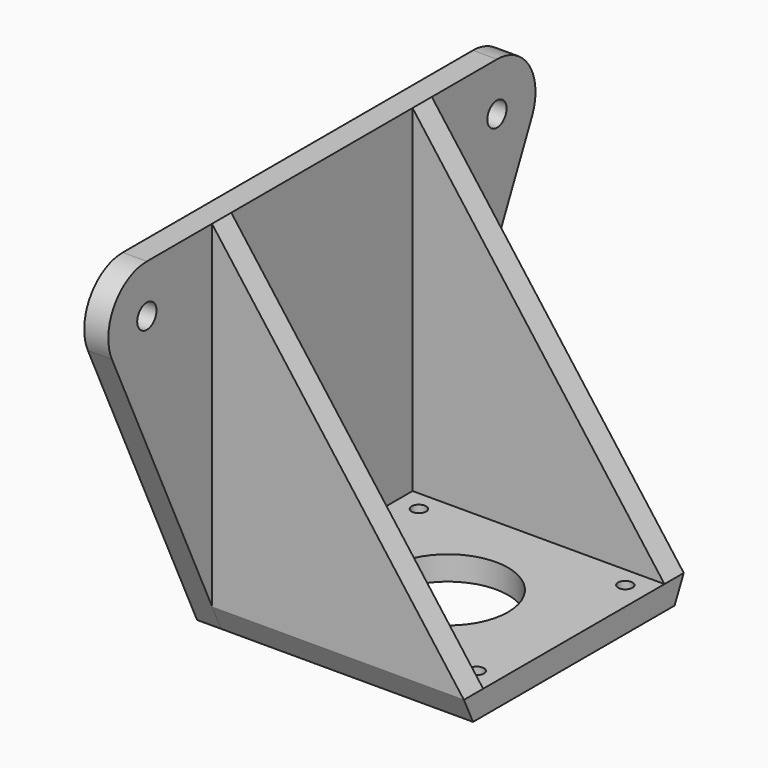
from build123d import *

# Parameters (mm, degrees)
F0_W      = 52.3
F0_H      = 52.3
F1_DEPTH  = 5
F3_DEPTH  = 5
F4_W      = 52.3
F4_H      = 55
F5_DEPTH  = 20
F7_DEPTH  = 52.3
F8_R      = 5
F8_R_2    = 4.357139
F9_DEPTH  = 50
F10_R     = 2.5
F11_DEPTH = 55.001
F13_DEPTH = 52.3
F14_W     = 52.3
F14_H     = 5
F15_DEPTH = 70
F17_DEPTH = 89.648963
F18_R     = 10
F19_R     = 12.5
F19_R_2   = 1.5
F20_DEPTH = 5.001
F21_R     = 2.5
F22_DEPTH = 25.001


with BuildPart() as f1:
    # F0 (on Top) → F1 (new body)
    with BuildSketch(Plane.XY):
        with Locations((26.15, 26.15)):
            Rectangle(F0_W, F0_H)
    extrude(amount=F1_DEPTH)

    # F2 (on Right) → F3 (join)
    with BuildSketch(Plane.YZ):
        Polygon((0, 0), (52.3, 0), (87.273074, 75), (26.15, 75), (-34.973074, 75), align=None)
    extrude(amount=-F3_DEPTH)

    # F4 (on face) → F5 (join)
    with BuildSketch(Plane(origin=(-5, 0, 0), x_dir=(0, -1, 0), z_dir=(-1, 0, 0))):
        with Locations((-26.15, 27.5)):
            Rectangle(F4_W, F4_H)
    extrude(amount=F5_DEPTH)

    # F6 (on face) → F7 (cut, through all)
    with BuildSketch(Plane(origin=(0, 52.3, 0), x_dir=(-1, 0, 0), z_dir=(0, 1, 0))):
        Polygon((25, 55), (5, 0), (25, 0), align=None)
    extrude(amount=-F7_DEPTH, mode=Mode.SUBTRACT)

    # F8 (on Top) → F9 (cut)
    with BuildSketch(Plane.XY):
        with Locations((-15, 10)):
            Circle(F8_R)
        with Locations((-15, 42.3)):
            Circle(F8_R_2)
    extrude(amount=F9_DEPTH, mode=Mode.SUBTRACT)

    # F10 (on face) → F11 (cut, through all)
    with BuildSketch(Plane.XY.offset(55)):
        with Locations((-15, 42.3)):
            Circle(F10_R)
        with Locations((-15, 10)):
            Circle(F10_R)
    extrude(amount=-F11_DEPTH, mode=Mode.SUBTRACT)

    # F12 (on face) → F13 (join, through all)
    with BuildSketch(Plane.YZ.offset(52.3)):
        Polygon((0, 0), (0, 5), (-2.374889, 5), align=None)
        Polygon((54.674889, 5), (52.3, 5), (52.3, 0), align=None)
    extrude(amount=-F13_DEPTH)

    # F14 (on face) → F15 (join, through all)
    with BuildSketch(Plane.XY.offset(5)):
        with Locations((26.15, 52.174889)):
            Rectangle(F14_W, F14_H)
        with Locations((26.15, 0.125111)):
            Rectangle(F14_W, F14_H)
    extrude(amount=F15_DEPTH)

    # F16 (on face) → F17 (cut, through all)
    with BuildSketch(Plane.XZ.offset(2.374889)):
        Polygon((52.3, 75), (0, 75), (52.3, 5), align=None)
    extrude(amount=-F17_DEPTH, mode=Mode.SUBTRACT)

    # F18
    f18_edges = [f1.edges().sort_by_distance(p)[0] for p in [
        (-2.5, -34.973074, 75),
        (-2.5, 87.273074, 75),
    ]]
    fillet(f18_edges, radius=F18_R)

    # F19 (on face) → F20 (cut, through all)
    with BuildSketch(Plane.XY.offset(5)):
        with Locations((26.15, 26.15)):
            Circle(F19_R)
        with Locations((4.72885, 6.879248)):
            Circle(F19_R_2)
        with Locations((4.72885, 45.420752)):
            Circle(F19_R_2)
        with Locations((47.57115, 45.420752)):
            Circle(F19_R_2)
        with Locations((47.57115, 6.879248)):
            Circle(F19_R_2)
    extrude(amount=-F20_DEPTH, mode=Mode.SUBTRACT)

    # F21 (on face) → F22 (cut, through all)
    with BuildSketch(Plane.YZ):
        with Locations((-19.276219, 65)):
            Circle(F21_R)
        with Locations((71.576219, 65)):
            Circle(F21_R)
    extrude(amount=-F22_DEPTH, mode=Mode.SUBTRACT)


solid = f1.part
